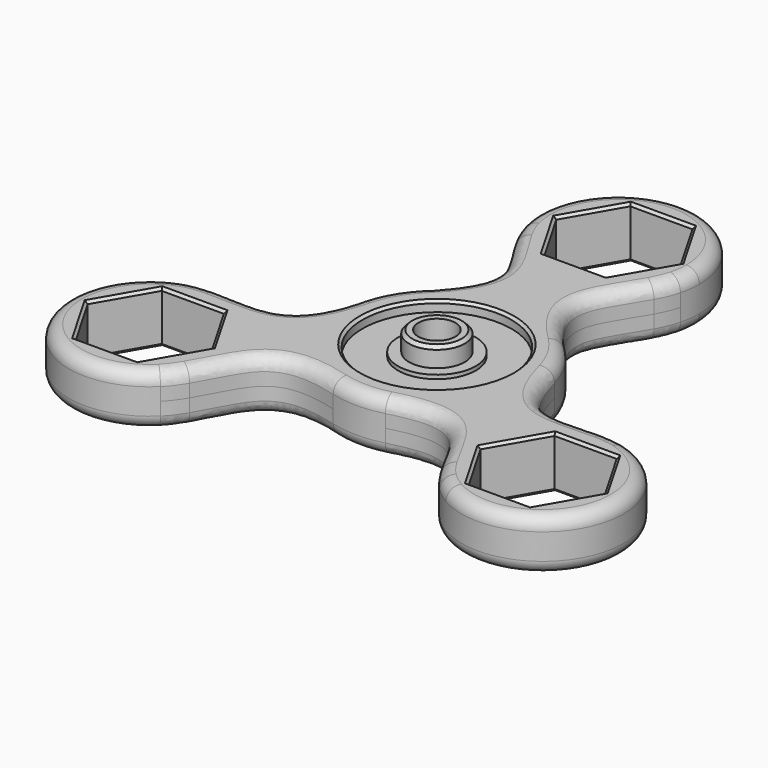
from build123d import *

# Parameters (mm, degrees)
F1_DEPTH  = 4
F3_COUNT  = 3
F0_R      = 11.5
F4_DEPTH  = 4
F6_R      = 2
F7_SIZE   = 0.4
F8_SIZE   = 0.4
F9_SIZE   = 0.4
F10_R     = 12.6110579831
F10_R_2   = 6
F10_R_3   = 4.3
F10_R_4   = 2.877213947
F11_DEPTH = 2.4
F12_DEPTH = 3
F13_DEPTH = 6
F14_SIZE  = 0.5
F15_SIZE  = 1


with BuildPart() as f1:
    # F0 (on Top) → F1 (new body, symmetric)
    with BuildSketch(Plane.XY):
        with BuildLine():
            ThreePointArc((12.0985015008, 31.8573480253), (12.3992191036, 33.4159022695), (12.5, 35))
            ThreePointArc((12.5, 35), (-1.5840977305, 47.3992191036), (-12.0985015008, 31.8573480253))
            add(Edge.make_bspline(
                [(-12.0985015008, 31.8573480253), (-11.8059340004, 30.7310291164), (-11.2923375566, 29.6159087167), (-10.6873809573, 28.5169537813)],
                knots=[0, 0, 0, 0, 0.1469979522, 0.1469979522, 0.1469979522, 0.1469979522], degree=3))
            ThreePointArc((-10.6873809573, 28.5169537813), (0, 22.5), (10.6873809573, 28.5169537813))
            add(Edge.make_bspline(
                [(12.0985015008, 31.8573480253), (11.8059340004, 30.7310291164), (11.2923375566, 29.6159087167), (10.6873809573, 28.5169537813)],
                knots=[0, 0, 0, 0, 0.1469979522, 0.1469979522, 0.1469979522, 0.1469979522], degree=3))
        make_face()
        Polygon((9.5840144685, 35), (4.7920072343, 26.7), (-4.7920072343, 26.7), (-9.5840144685, 35), (-4.7920072343, 43.3), (4.7920072343, 43.3), align=None, mode=Mode.SUBTRACT)
        with BuildLine():
            ThreePointArc((10.6873809573, 28.5169537813), (0, 22.5), (-10.6873809573, 28.5169537813))
            add(Edge.make_bspline(
                [(-10.6873809573, 28.5169537813), (-9.1369035422, 25.7003801469), (-4.2677102827, 19.5637656981), (-7.5127992208, 14.4001417387), (-10.948401735, 10.9718958913)],
                knots=[0.1469979522, 0.1469979522, 0.1469979522, 0.1469979522, 0.5237473014, 1, 1, 1, 1], degree=3))
            ThreePointArc((-10.948401735, 10.9718958913), (0, 15.5), (10.948401735, 10.9718958913))
            add(Edge.make_bspline(
                [(10.6873809573, 28.5169537813), (9.1369035422, 25.7003801469), (4.2677102827, 19.5637656981), (7.5127992208, 14.4001417387), (10.948401735, 10.9718958913)],
                knots=[0.1469979522, 0.1469979522, 0.1469979522, 0.1469979522, 0.5237473014, 1, 1, 1, 1], degree=3))
        make_face()
    extrude(amount=F1_DEPTH, both=True)


with BuildPart() as f3_1:
    # F3: instance of F1
    add(f1.part.rotate(Axis((0, 0, -0.2246443182), (0, 0, 1)), 1 * 360 / F3_COUNT))


with BuildPart() as f3_2:
    # F3: instance of F1
    add(f1.part.rotate(Axis((0, 0, -0.2246443182), (0, 0, 1)), 2 * 360 / F3_COUNT))


with BuildPart() as f4:
    # F0 (on Top) → F4 (new body, symmetric)
    with BuildSketch(Plane.XY):
        with BuildLine():
            ThreePointArc((10.948401735, 10.9718958913), (0, 15.5), (-10.948401735, 10.9718958913))
            ThreePointArc((-10.948401735, 10.9718958913), (-5.9392664996, -14.3169519607), (15.5, 0))
            ThreePointArc((15.5, 0), (14.3169519607, 5.9392664996), (10.948401735, 10.9718958913))
        make_face()
        Circle(F0_R, mode=Mode.SUBTRACT)
    extrude(amount=F4_DEPTH, both=True)


with BuildPart() as f3_1_1:
    add(f3_1.part)

    # F5: union F4, F3_2, F1
    add(f4.part)
    add(f3_2.part)
    add(f1.part)

    # F6
    f6_edges = [f3_1_1.edges().sort_by_distance(p)[0] for p in [
        (-21.797389, -4.888476, -4),
        (6.66515, 21.32133, 4),
    ]]
    fillet(f6_edges, radius=F6_R)

    # F7
    f7_edges = [f3_1_1.edges().sort_by_distance(p)[0] for p in [
        (-11.5, 0, -4),
        (0, 45.5, 4),
        (4.448581, 20.822877, 4),
        (-4.448581, 20.822877, 4),
        (11.691343, 6.75, 4),
        (-11.691343, 6.75, 4),
        (20.257431, -6.558855, 4),
        (-20.257431, -6.558855, 4),
        (39.404156, -22.75, 4),
        (-39.404156, -22.75, 4),
        (15.80885, -14.264023, 4),
        (-15.80885, -14.264023, 4),
        (0, -13.5, 4),
        (-11.5, 0, 4),
        (37.4989, -21.65, 4),
        (30.310889, -25.8, 4),
        (23.122878, -21.65, 4),
        (23.122878, -13.35, 4),
        (30.310889, -9.2, 4),
        (37.4989, -13.35, 4),
        (0, 43.3, 4),
        (7.188011, 39.15, 4),
        (7.188011, 30.85, 4),
        (0, 26.7, 4),
        (-7.188011, 30.85, 4),
        (-7.188011, 39.15, 4),
        (-37.4989, -21.65, 4),
        (-37.4989, -13.35, 4),
        (-30.310889, -9.2, 4),
        (-23.122878, -13.35, 4),
        (-23.122878, -21.65, 4),
        (-30.310889, -25.8, 4),
    ]]
    chamfer(f7_edges, length=F7_SIZE)

    # F8
    f8_edges = [f3_1_1.edges().sort_by_distance(p)[0] for p in [
        (0, 26.7, -4),
        (7.188011, 30.85, -4),
        (7.188011, 39.15, -4),
        (0, 43.3, -4),
        (-7.188011, 39.15, -4),
        (-7.188011, 30.85, -4),
    ]]
    chamfer(f8_edges, length=F8_SIZE)

    # F9
    f9_edges = [f3_1_1.edges().sort_by_distance(p)[0] for p in [
        (-23.122878, -13.35, -4),
        (-23.122878, -21.65, -4),
        (-30.310889, -25.8, -4),
        (-37.4989, -21.65, -4),
        (-37.4989, -13.35, -4),
        (-30.310889, -9.2, -4),
        (30.310889, -25.8, -4),
        (37.4989, -21.65, -4),
        (37.4989, -13.35, -4),
        (30.310889, -9.2, -4),
        (23.122878, -13.35, -4),
        (23.122878, -21.65, -4),
    ]]
    chamfer(f9_edges, length=F9_SIZE)


with BuildPart() as f11:
    # F10 (on Top) → F11 (new body)
    with BuildSketch(Plane.XY):
        Circle(F10_R)
        Circle(F10_R_2, mode=Mode.SUBTRACT)
        Circle(F10_R_2)
        Circle(F10_R_3, mode=Mode.SUBTRACT)
        Circle(F10_R_3)
        Circle(F10_R_4, mode=Mode.SUBTRACT)
        Circle(F10_R_4)
    extrude(amount=F11_DEPTH)

    # F10 (on Top) → F12 (join)
    with BuildSketch(Plane.XY):
        Circle(F10_R_2)
        Circle(F10_R_3, mode=Mode.SUBTRACT)
    extrude(amount=F12_DEPTH)

    # F10 (on Top) → F13 (join)
    with BuildSketch(Plane.XY):
        Circle(F10_R_3)
        Circle(F10_R_4, mode=Mode.SUBTRACT)
    extrude(amount=F13_DEPTH)

    # F14
    f14_edges = [f11.edges().sort_by_distance(p)[0] for p in [
        (-4.3, 0, 6),
        (-12.611058, 0, 2.4),
    ]]
    chamfer(f14_edges, length=F14_SIZE)

    # F15
    f15_edges = [f11.edges().sort_by_distance(p)[0] for p in [
        (-12.611058, 0, 0),
    ]]
    chamfer(f15_edges, length=F15_SIZE)


solid = Compound([f3_1_1.part, f11.part])
